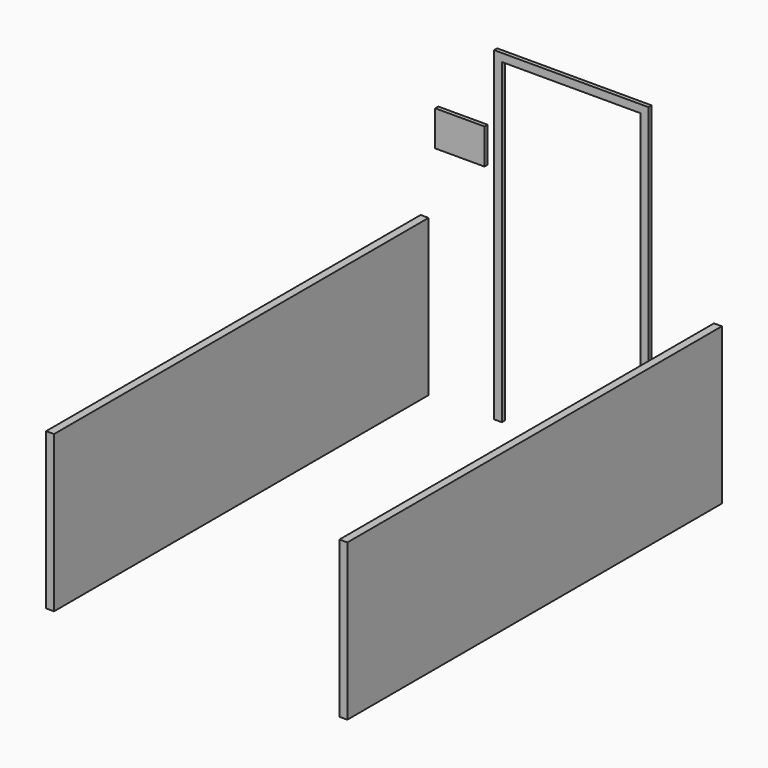
from build123d import *

# Parameters (mm, degrees)
F0_W     = 50.8
F0_H     = 3000
F1_DEPTH = 1000
F4_DEPTH = 25
F5_W     = 315.602295
F5_H     = 226.181636
F6_DEPTH = 25


with BuildPart() as f1:
    # F0 (on Top) → F1 (new body)
    with BuildSketch(Plane.XY):
        with Locations((-939.8, -1500)):
            Rectangle(F0_W, F0_H)
    extrude(amount=F1_DEPTH)


with BuildPart() as f2_1:
    # F2: instance of F1
    add(f1.part.mirror(Plane.YZ))


with BuildPart() as f4:
    # F3 (on Front) → F4 (new body)
    with BuildSketch(Plane.XZ):
        Polygon((-444.5, 0), (-444.5, 2032), (444.5, 2032), (444.5, 0), (495.3, 0), (495.3, 2082.8), (-495.3, 2082.8), (-495.3, 0), align=None)
    extrude(amount=-F4_DEPTH)


with BuildPart() as f6:
    # F5 (on Front) → F6 (new body)
    with BuildSketch(Plane.XZ):
        with Locations((-694.119244, 1535.490818)):
            Rectangle(F5_W, F5_H)
    extrude(amount=F6_DEPTH)


solid = Compound([f1.part, f2_1.part, f4.part, f6.part])
